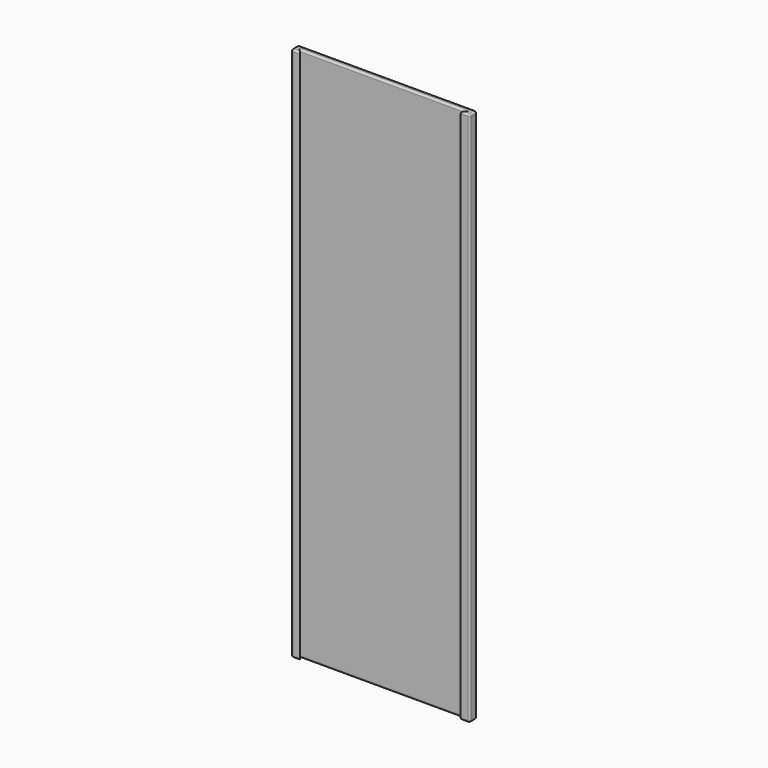
from build123d import *

# Parameters (mm, degrees)
F1_DEPTH = 150
F2_R     = 0.5


with BuildPart() as f1:
    # F0 (on Top) → F1 (new body)
    with BuildSketch(Plane.XY):
        Polygon((1, -1), (0, 0), (47, 0), (46, -1), (48.5, -1), (48.5, 1.5), (-1.5, 1.5), (-1.5, -1), align=None)
    extrude(amount=F1_DEPTH)

    # F2
    f2_edges = [f1.edges().sort_by_distance(p)[0] for p in [
        (23.5, 0, 150),
        (23.5, 1.5, 150),
        (-1.5, 0.25, 150),
        (48.5, 0.25, 150),
        (48.5, -1, 75),
        (48.5, 1.5, 75),
        (48.5, 0.25, 0),
        (-1.5, -1, 75),
        (-1.5, 1.5, 75),
        (23.5, 1.5, 0),
        (-1.5, 0.25, 0),
        (47.25, -1, 0),
        (-0.25, -1, 0),
        (23.5, 0, 0),
        (-0.25, -1, 150),
        (47.25, -1, 150),
    ]]
    fillet(f2_edges, radius=F2_R)


solid = f1.part
